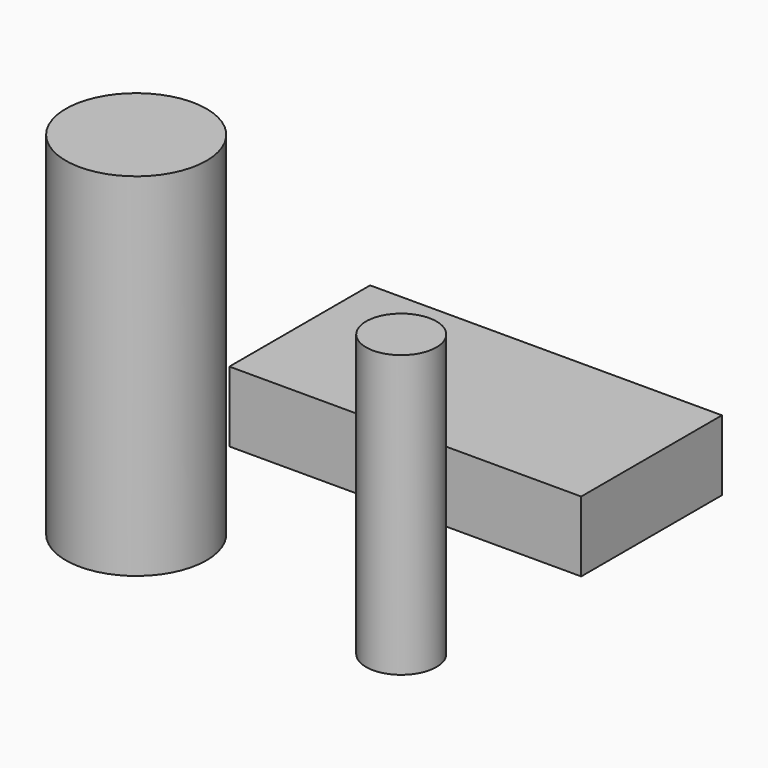
from build123d import *

# Parameters (mm, degrees)
F0_W     = 100
F0_H     = 50
F1_DEPTH = 20
F0_R     = 10
F2_DEPTH = 80
F0_R_2   = 20
F3_DEPTH = 100


with BuildPart() as f1:
    # F0 (on Top) → F1 (new body)
    with BuildSketch(Plane.XY):
        with Locations((6.464395, 5.945636)):
            Rectangle(F0_W, F0_H)
    extrude(amount=F1_DEPTH)


with BuildPart() as f2:
    # F0 (on Top) → F2 (new body)
    with BuildSketch(Plane.XY):
        with Locations((48.580647, -73.133022)):
            Circle(F0_R)
    extrude(amount=F2_DEPTH)


with BuildPart() as f3:
    # F0 (on Top) → F3 (new body)
    with BuildSketch(Plane.XY):
        with Locations((-33.295278, -64.963214)):
            Circle(F0_R_2)
    extrude(amount=F3_DEPTH)


solid = Compound([f1.part, f2.part, f3.part])
